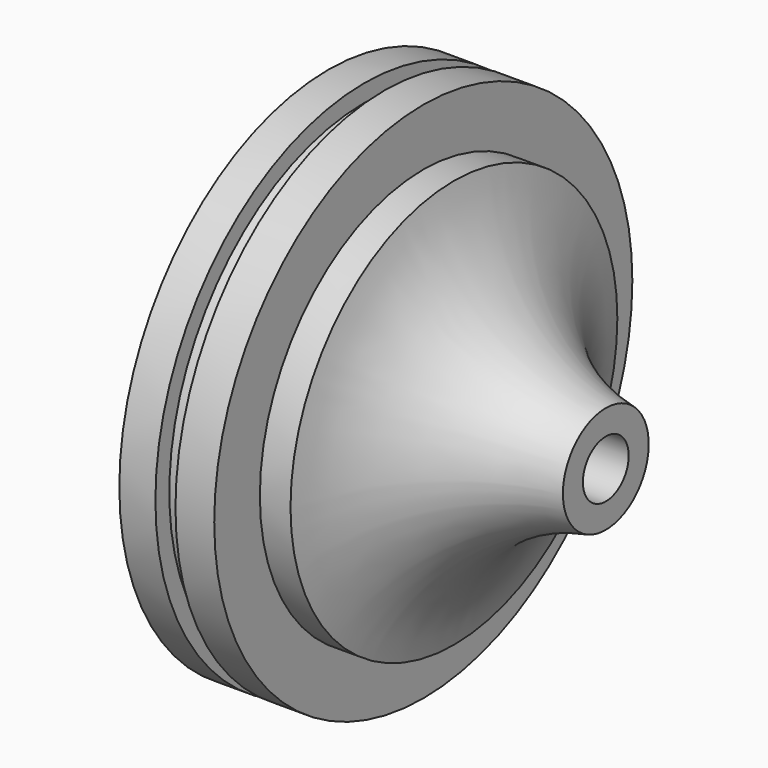
from build123d import *


with BuildPart() as f1:
    # F0 (on Front) → F1 (revolve)
    with BuildSketch(Plane.XZ):
        with BuildLine():
            Line((0, 35.635482), (0, 0))
            Line((0, 0), (54.456629, 0))
            Line((54.456629, 0), (54.456629, 9.35728))
            ThreePointArc((54.456629, 9.35728), (37.055172, 18.307365), (27.963908, 35.635482))
            Line((27.963908, 35.635482), (22.618492, 35.635482))
            Line((22.618492, 35.635482), (22.618492, 45.586757))
            Line((22.618492, 45.586757), (15.856263, 45.586757))
            Line((15.856263, 45.586757), (15.856263, 42.555407))
            Line((15.856263, 42.555407), (12.358558, 42.555407))
            Line((12.358558, 42.555407), (12.358558, 45.586757))
            Line((12.358558, 45.586757), (6.062689, 45.586757))
            Line((6.062689, 45.586757), (6.062689, 35.635482))
            Line((6.062689, 35.635482), (0, 35.635482))
        make_face()
    revolve(axis=Axis((27.228314, 0, 0), (-1, 0, 0)))

    # F2 (on Front) → F3 (revolve, cut)
    with BuildSketch(Plane.XZ):
        Polygon((0, 13.247386), (0, 0), (56.932209, 0), (56.932209, 4.994054), (14.45647, 4.994054), (14.45647, 13.247386), align=None)
    revolve(axis=Axis((28.466105, 0, 0), (-1, 0, 0)), mode=Mode.SUBTRACT)


solid = f1.part
